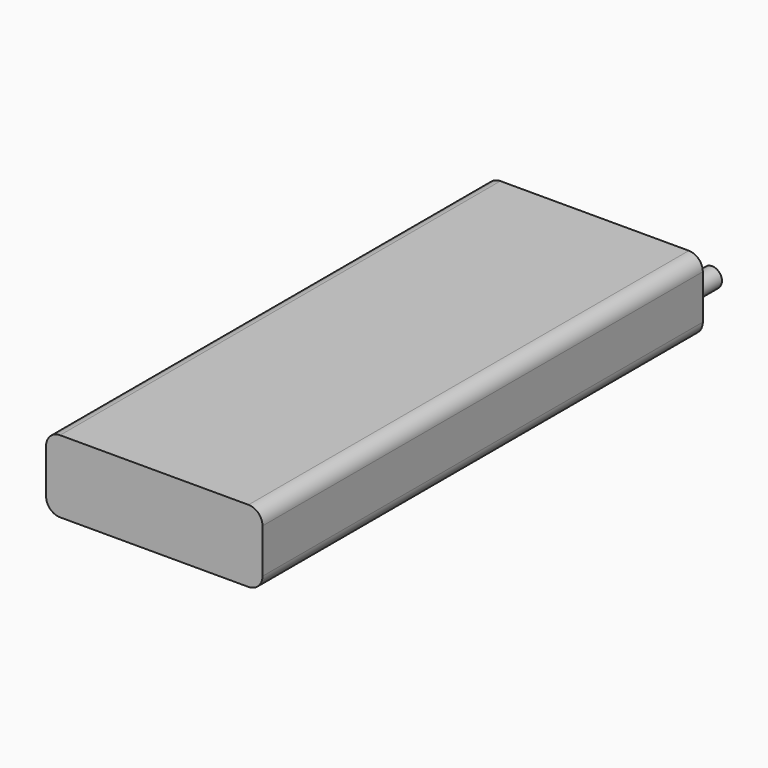
from build123d import *

# Parameters (mm, degrees)
F0_W     = 11.7856
F0_H     = 29.972
F1_DEPTH = 1.9685
F2_R     = 0.762
F3_R     = 0.5334
F4_DEPTH = 3.81


with BuildPart() as f1:
    # F0 (on Top) → F1 (new body, symmetric)
    with BuildSketch(Plane.XY):
        Rectangle(F0_W, F0_H)
    extrude(amount=F1_DEPTH, both=True)

    # F2
    f2_edges = [f1.edges().sort_by_distance(p)[0] for p in [
        (-5.8928, 0, 1.9685),
        (-5.8928, 0, -1.9685),
        (5.8928, 0, -1.9685),
        (5.8928, 0, 1.9685),
    ]]
    fillet(f2_edges, radius=F2_R)

    # F3 (on face) → F4 (join)
    with BuildSketch(Plane(origin=(0, 14.986, 0), x_dir=(-1, 0, 0), z_dir=(0, 1, 0))):
        with Locations((-3.3528, -1.4351)):
            Circle(F3_R)
        with Locations((-0.8128, -1.4351)):
            Circle(F3_R)
    extrude(amount=F4_DEPTH)


solid = f1.part
